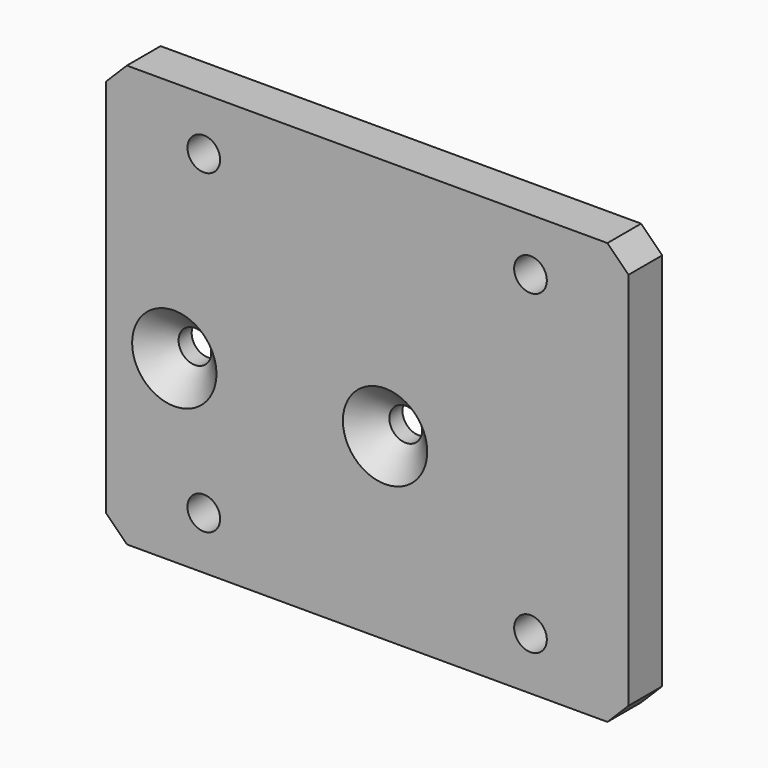
from build123d import *

# Parameters (mm, degrees)
F1_DEPTH       = 4
F2_D           = 3.1
F3_D           = 3.1
F3_CSINK_D     = 8
F3_CSINK_ANGLE = 90
F4_W           = 49.6
F4_H           = 20
F5_DEPTH       = 4
F6_SIZE        = 2


with BuildPart() as f1:
    # F0 (on Front) → F1 (new body)
    with BuildSketch(Plane.XZ):
        Polygon((0, 24.9760837853), (0, 0), (49.6, 0), (49.6, 60), (0, 60), (0, 34.9760837853), align=None)
    extrude(amount=-F1_DEPTH)

    # F2 (through all)
    with Locations(Plane.XZ):
        with Locations((9.3, 55), (40.3, 55), (9.3, 25), (40.3, 25)):
            Hole(F2_D / 2)

    # F3 (through all)
    with Locations(Plane.XZ):
        with Locations((6.5, 37), (26.5, 37)):
            CounterSinkHole(F3_D / 2, F3_CSINK_D / 2, counter_sink_angle=F3_CSINK_ANGLE)

    # F4 (on face) → F5 (cut, through all)
    with BuildSketch(Plane.XZ):
        with Locations((24.8, 10)):
            Rectangle(F4_W, F4_H)
    extrude(amount=-F5_DEPTH, mode=Mode.SUBTRACT)

    # F6
    f6_edges = [f1.edges().sort_by_distance(p)[0] for p in [
        (49.6, 2, 60),
        (49.6, 2, 20),
        (0, 2, 60),
        (0, 2, 20),
    ]]
    chamfer(f6_edges, length=F6_SIZE)


solid = f1.part
